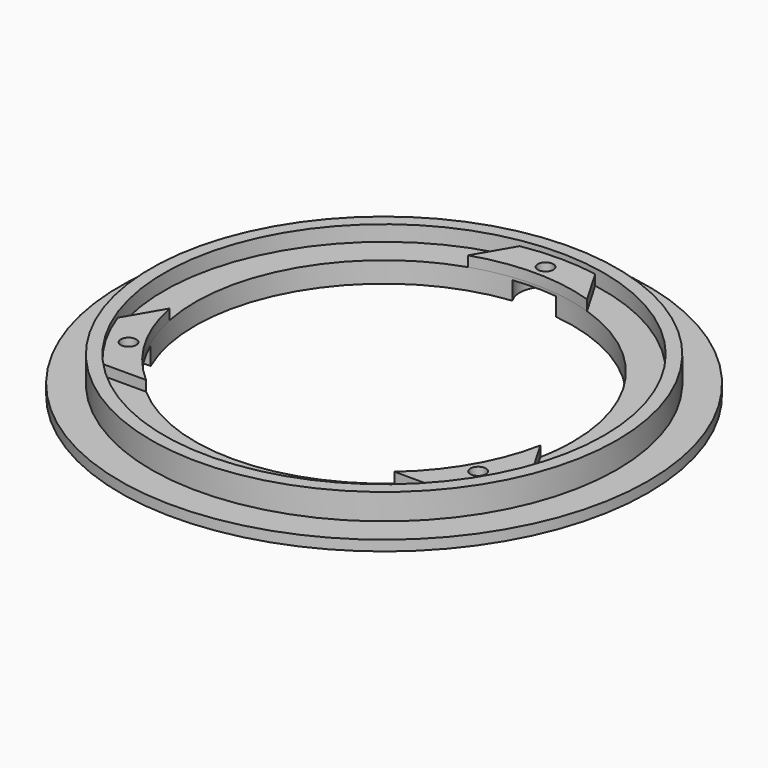
from build123d import *

# Parameters (mm, degrees)
SKETCH_R          = 51
SKETCH_R_2        = 36.5
PAD_DEPTH         = 2
SKETCH001_R       = 45
SKETCH001_R_2     = 42.5
PAD001_DEPTH      = 5
SKETCH002_R       = 43
SKETCH002_R_2     = 36.5
PAD002_DEPTH      = 2
SKETCH004_R       = 5
POCKET001_DEPTH   = 3.5
PAD003_DEPTH      = 2
SKETCH003_R       = 1.5
POCKET_DEPTH      = 4.001
POCKET_DEPTH_BACK = 3.001


with BuildPart() as part:
    # Sketch → Pad (new body)
    with BuildSketch(Plane.XY):
        Circle(SKETCH_R)
        Circle(SKETCH_R_2, mode=Mode.SUBTRACT)
    extrude(amount=PAD_DEPTH)

    # Sketch001 (on Face4 of Pad) → Pad001 (join)
    with BuildSketch(Plane.XY.offset(2)):
        Circle(SKETCH001_R)
        Circle(SKETCH001_R_2, mode=Mode.SUBTRACT)
    extrude(amount=PAD001_DEPTH)

    # Sketch002 (on Face6 of Pad001) → Pad002 (join)
    with BuildSketch(Plane.XY.offset(2)):
        Circle(SKETCH002_R)
        Circle(SKETCH002_R_2, mode=Mode.SUBTRACT)
    extrude(amount=PAD002_DEPTH)

    # Sketch004 → Pocket001 (cut)
    with BuildSketch(Plane(origin=(0, 0, 0), x_dir=(1, 0, 0), z_dir=(0, 0, -1))):
        with Locations((33.7749907476, 19.5)):
            Circle(SKETCH004_R)
        with Locations((-33.7749907476, 19.5)):
            Circle(SKETCH004_R)
        with Locations((0, -39)):
            Circle(SKETCH004_R)
    extrude(amount=-POCKET001_DEPTH, mode=Mode.SUBTRACT)

    # Sketch005 (on Face19 of Pocket001) → Pad003 (join)
    with BuildSketch(Plane.XY.offset(4)):
        with BuildLine():
            ThreePointArc((11.5051886068, 34.6392932249), (-0.0001407701, 36.4999999997), (-11.5054557942, 34.6392044794))
            Line((-7.2870367194, 41.8706233038), (-11.5054557942, 34.6392044794))
            ThreePointArc((7.2867818781, 41.8706676548), (-0.0001293359, 42.4999999998), (-7.2870367194, 41.8706233038))
            Line((11.5051886068, 34.6392932249), (7.2867818781, 41.8706676548))
        make_face()
        with BuildLine():
            ThreePointArc((-40.0341199475, -14.2660169643), (-36.8189826795, -21.2276356301), (-32.4052284347, -27.4982030339))
            Line((-32.4052284347, -27.4982030339), (-24.0020588681, -27.4982030339))
            ThreePointArc((-35.8157008728, -7.0345981399), (-31.6106133509, -18.2488115663), (-24.0020588681, -27.4982030339))
            Line((-35.8157008728, -7.0345981399), (-40.0341199475, -14.2660169643))
        make_face()
        with BuildLine():
            Line((40.0340730114, -14.2661486785), (35.8156662827, -7.0347742486))
            ThreePointArc((24.0020588681, -27.4982030339), (31.6105684853, -18.2488892822), (35.8156662827, -7.0347742486))
            Line((24.0020588681, -27.4982030339), (32.4052284347, -27.4982030339))
            ThreePointArc((32.4052284347, -27.4982030339), (36.8189477595, -21.2276961982), (40.0340730114, -14.2661486785))
        make_face()
    extrude(amount=PAD003_DEPTH)

    # Sketch003 (on Face8 of Pad002) → Pocket (cut, two sides)
    with BuildSketch(Plane.XY.offset(4)) as pocket_sk:
        with Locations((0, 39)):
            Circle(SKETCH003_R)
        with Locations((33.7749907476, -19.5)):
            Circle(SKETCH003_R)
        with Locations((-33.7749907476, -19.5)):
            Circle(SKETCH003_R)
    extrude(amount=-POCKET_DEPTH, mode=Mode.SUBTRACT)
    extrude(pocket_sk.sketch, amount=POCKET_DEPTH_BACK, mode=Mode.SUBTRACT)


solid = part.part
